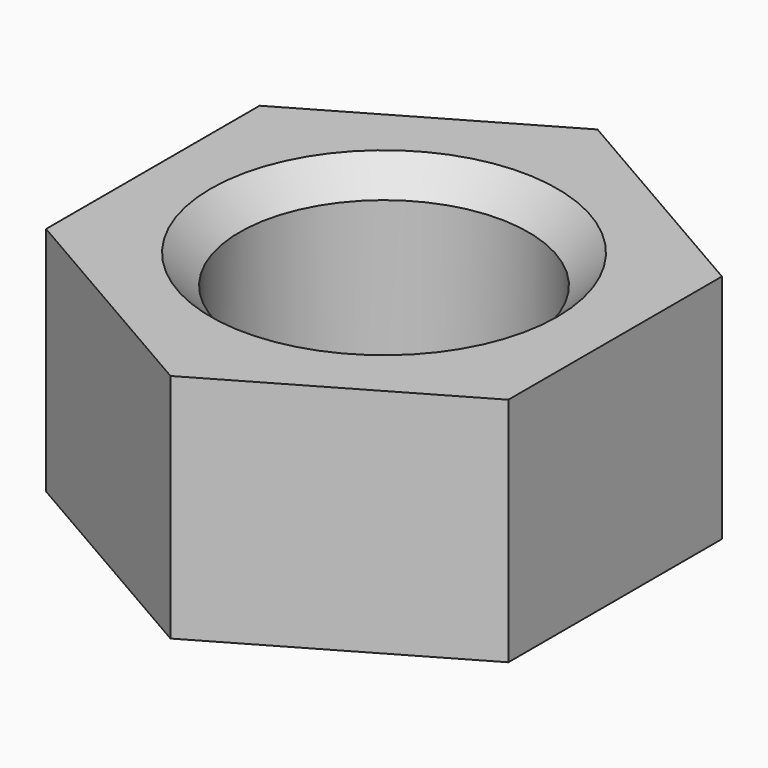
from build123d import *

# Parameters (mm, degrees)
F0_R     = 2.5
F1_DEPTH = 4
F2_SIZE  = 0.5


with BuildPart() as f1:
    # F0 (on Top) → F1 (new body)
    with BuildSketch(Plane.XY):
        Polygon((4, -2.309401), (4, 2.309401), (0, 4.618802), (-4, 2.309401), (-4, -2.309401), (0, -4.618802), align=None)
        Circle(F0_R, mode=Mode.SUBTRACT)
    extrude(amount=F1_DEPTH)

    # F2
    f2_edges = [f1.edges().sort_by_distance(p)[0] for p in [
        (-2.5, 0, 4),
        (-2.5, 0, 0),
    ]]
    chamfer(f2_edges, length=F2_SIZE)


solid = f1.part
